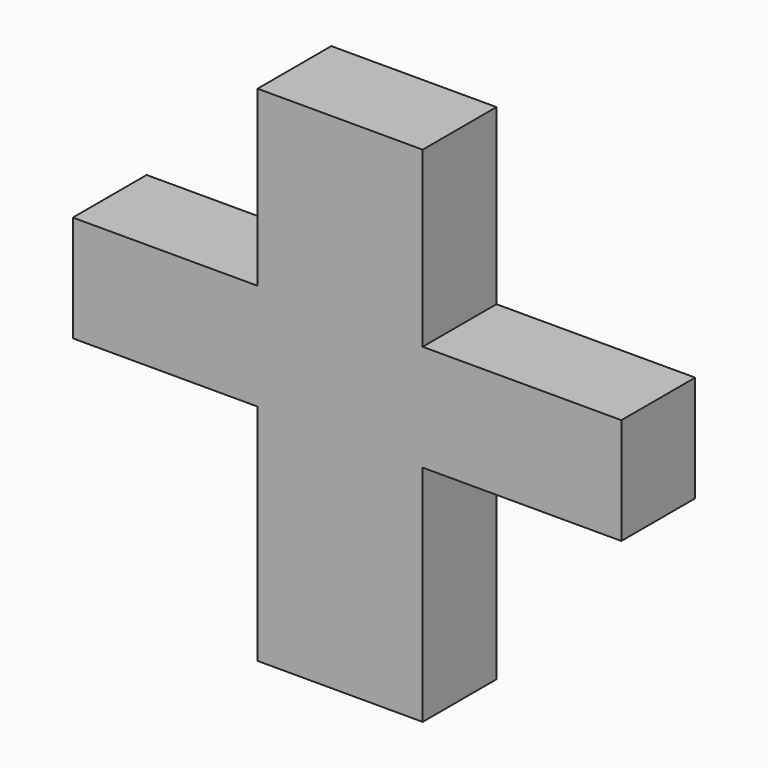
from build123d import *

# Parameters (mm, degrees)
F0_W     = 9.0955495834
F0_H     = 9.5580331981
F0_H_2   = 5.8581503108
F0_W_2   = 10.1746823639
F0_W_3   = 10.9454905614
F0_H_3   = 12.3329488561
F1_DEPTH = 5.08


with BuildPart() as f1:
    # F0 (on Front) → F1 (new body)
    with BuildSketch(Plane.XZ):
        with Locations((-4.5477747917, 22.9701157659)):
            Rectangle(F0_W, F0_H)
        with Locations((-4.5477747917, 15.2620240115)):
            Rectangle(F0_W, F0_H_2)
        with Locations((-14.1828907654, 15.2620240115)):
            Rectangle(F0_W_2, F0_H_2)
        with Locations((5.4727452807, 15.2620240115)):
            Rectangle(F0_W_3, F0_H_2)
        with Locations((-4.5477747917, 6.166474428)):
            Rectangle(F0_W, F0_H_3)
    extrude(amount=F1_DEPTH)


solid = f1.part
